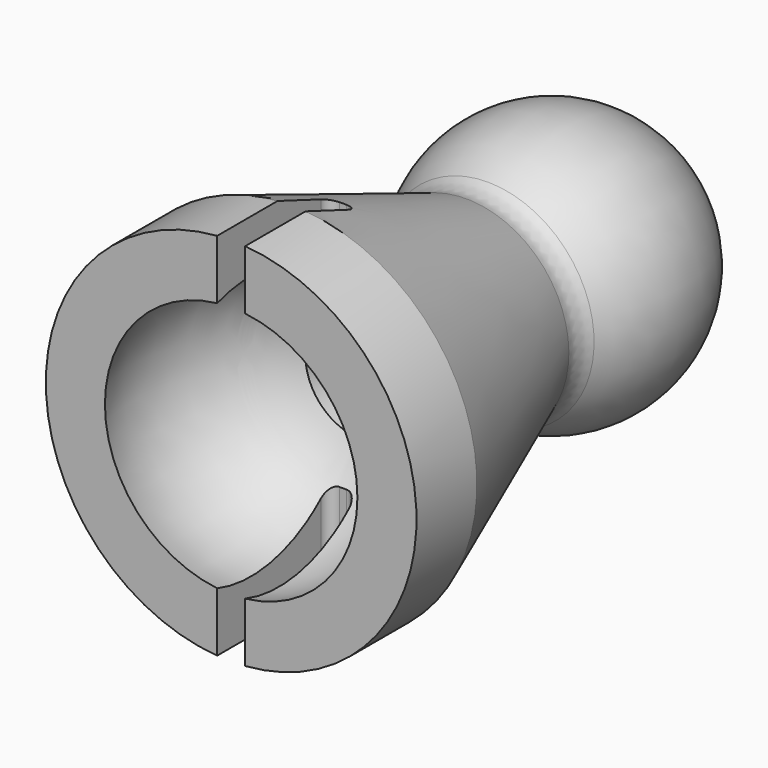
from build123d import *

# Parameters (mm, degrees)
F2_R     = 2
F3_W     = 2
F3_H     = 10
F4_DEPTH = 16.8
F5_R     = 0.75


with BuildPart() as f1:
    # F0 (on Top) → F1 (revolve)
    with BuildSketch(Plane.XY):
        with BuildLine():
            Line((-4, 11.616844), (-4, 37.216844))
            ThreePointArc((-4, 37.216844), (-9.329228, 30.393184), (-6.909459, 22.080079))
            Line((-6.909459, 22.080079), (-13.231568, 5.385481))
            Line((-13.231568, 5.385481), (-13.231568, 0))
            Line((-13.231568, 0), (-9.013878, 0))
            ThreePointArc((-9.013878, 0), (-8.722272, 6.764569), (-4, 11.616844))
        make_face()
    revolve(axis=Axis((0, 19.05, 0), (0, -1, 0)))

    # F2
    f2_edges = [f1.edges().sort_by_distance(p)[0] for p in [
        (6.909459, 22.080079, 0),
    ]]
    fillet(f2_edges, radius=F2_R)

    # F3 (on Top) → F4 (cut, symmetric)
    with BuildSketch(Plane.XY):
        with Locations((0, 5)):
            Rectangle(F3_W, F3_H)
    extrude(amount=F4_DEPTH, both=True, mode=Mode.SUBTRACT)

    # F5
    f5_edges = [f1.edges().sort_by_distance(p)[0] for p in [
        (-1, 10, -8.892377),
        (-1, 10, 8.892377),
        (1, 10, -8.892377),
        (1, 10, 8.892377),
    ]]
    fillet(f5_edges, radius=F5_R)


solid = f1.part
